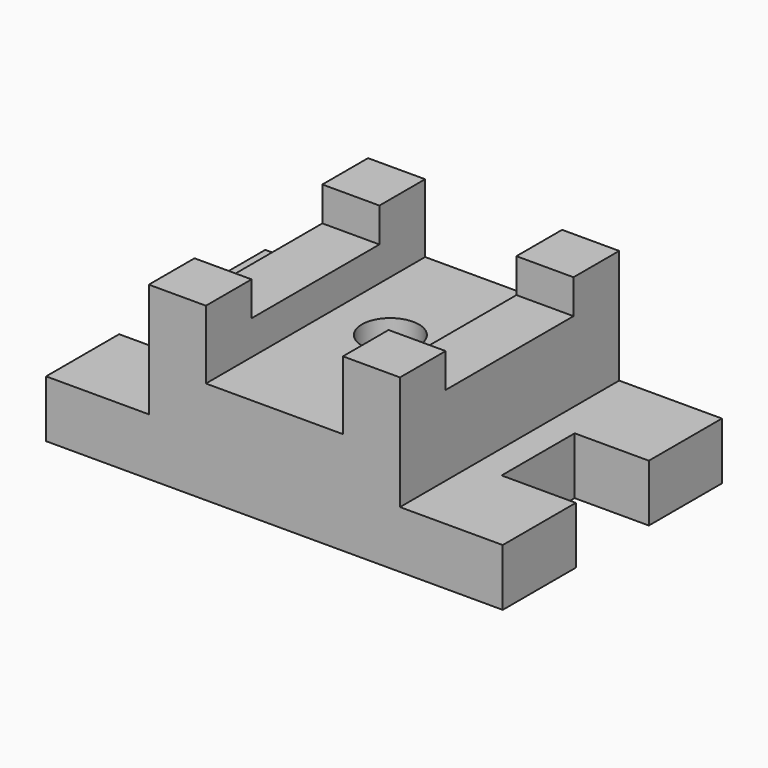
from build123d import *

# Parameters (mm, degrees)
F1_DEPTH  = 31.75
F2_W      = 139.7
F2_H      = 152.4
F3_DEPTH  = 25.4
F5_D      = 31.75
F6_W      = 31.75
F6_H      = 31.75
F6_H_2    = 88.9
F7_DEPTH  = 19.05
F8_W      = 31.75
F8_H      = 31.75
F9_DEPTH  = 19.05
F10_W     = 31.75
F10_H     = 31.75
F11_DEPTH = 19.05


with BuildPart() as f1:
    # F0 (on Top) → F1 (new body)
    with BuildSketch(Plane.XY):
        Polygon((154.9607325792, 50.8), (-99.0392674208, 50.8), (-99.0392674208, 0), (-57.7642674208, 0), (-57.7642674208, -50.8), (-99.0392674208, -50.8), (-99.0392674208, -101.6), (154.9607325792, -101.6), (154.9607325792, -50.8), (113.6857325792, -50.8), (113.6857325792, 0), (154.9607325792, 0), align=None)
    extrude(amount=F1_DEPTH)

    # F2 (on face) → F3 (join)
    with BuildSketch(Plane.XY.offset(31.75)):
        with Locations((27.9607325792, -25.4)):
            Rectangle(F2_W, F2_H)
    extrude(amount=F3_DEPTH)

    # F5 (through all)
    with Locations(Plane.XY.offset(57.15)):
        with Locations((23.8818004727, -15.8603843302)):
            Hole(F5_D / 2)

    # F6 (on face) → F7 (join)
    with BuildSketch(Plane.XY.offset(57.15)):
        with Locations((-26.0142674208, -85.725)):
            Rectangle(F6_W, F6_H)
        with Locations((-26.0142674208, 34.925)):
            Rectangle(F6_W, F6_H)
        with Locations((81.9357325792, 34.925)):
            Rectangle(F6_W, F6_H)
        with Locations((81.9357325792, -85.725)):
            Rectangle(F6_W, F6_H)
        with Locations((-26.0142674208, -25.4)):
            Rectangle(F6_W, F6_H_2)
        with Locations((81.9357325792, -25.4)):
            Rectangle(F6_W, F6_H_2)
    extrude(amount=F7_DEPTH)

    # F8 (on face) → F9 (join)
    with BuildSketch(Plane.XY.offset(76.2)):
        with Locations((-26.0142674208, -85.725)):
            Rectangle(F8_W, F8_H)
        with Locations((-26.0142674208, 34.925)):
            Rectangle(F8_W, F8_H)
    extrude(amount=F9_DEPTH)

    # F10 (on face) → F11 (join)
    with BuildSketch(Plane.XY.offset(76.2)):
        with Locations((81.9357325792, -85.725)):
            Rectangle(F10_W, F10_H)
        with Locations((81.9357325792, 34.925)):
            Rectangle(F10_W, F10_H)
    extrude(amount=F11_DEPTH)


solid = f1.part
